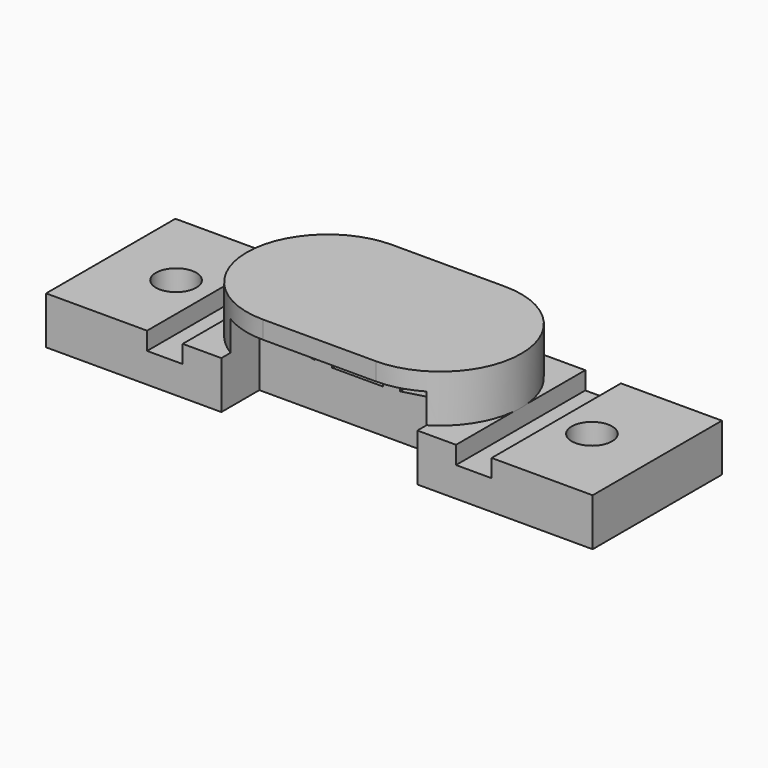
from build123d import *

# Parameters (mm, degrees)
SKETCH_W        = 46
SKETCH_H        = 13.6
SKETCH_R        = 1.7
PAD_DEPTH       = 4
PAD001_DEPTH    = 4
SKETCH002_W     = 4.3
SKETCH002_H     = 1.7
POCKET_DEPTH    = 10
SKETCH003_W     = 16.5
SKETCH003_H     = 7.2
POCKET001_DEPTH = 4
SKETCH004_W     = 3
SKETCH004_H     = 1.5
POCKET002_DEPTH = 110.862709
SKETCH005_W     = 18.5
SKETCH005_H     = 3.5
SKETCH005_W_2   = 2.5
SKETCH005_H_2   = 6
POCKET003_DEPTH = 2
CHAMFER_SIZE    = 1.99
CHAMFER001_SIZE = 1.99


with BuildPart() as part:
    # Sketch → Pad (new body)
    with BuildSketch(Plane.XY):
        Rectangle(SKETCH_W, SKETCH_H)
        with Locations((-17.5, 0)):
            Circle(SKETCH_R, mode=Mode.SUBTRACT)
        with Locations((17.5, 0)):
            Circle(SKETCH_R, mode=Mode.SUBTRACT)
    extrude(amount=-PAD_DEPTH)

    # Sketch001 → Pad001 (new body)
    with BuildSketch(Plane.XY):
        with BuildLine():
            ThreePointArc((-4.75, 6.8), (-11.55, 0), (-4.75, -6.8))
            Line((-4.75, -6.8), (4.75, -6.8))
            ThreePointArc((4.75, -6.8), (11.55, 0), (4.75, 6.8))
            Line((-4.75, 6.8), (4.75, 6.8))
        make_face()
    extrude(amount=PAD001_DEPTH)

    # Sketch002 → Pocket (cut)
    with BuildSketch(Plane.XZ.offset(6.8)):
        Polygon((-7.588114, 2.079739), (-3.336138, 1.438879), (-3.589501, -0.242134), (-7.841477, 0.398725), align=None)
        with Locations((0, 0.5)):
            Rectangle(SKETCH002_W, SKETCH002_H)
        Polygon((3.336139, 1.438884), (7.588117, 2.079734), (7.841476, 0.39872), (3.589499, -0.24213), align=None)
    extrude(amount=-POCKET_DEPTH, mode=Mode.SUBTRACT)

    # Sketch003 → Pocket001 (cut)
    with BuildSketch(Plane.XZ.offset(6.8)):
        with Locations((0, -1.1)):
            Rectangle(SKETCH003_W, SKETCH003_H)
    extrude(amount=-POCKET001_DEPTH, mode=Mode.SUBTRACT)

    # Sketch004 → Pocket002 (cut, through all)
    with BuildSketch(Plane.XZ.offset(6.8)):
        with Locations((-13, -0.75)):
            Rectangle(SKETCH004_W, SKETCH004_H)
    pocket002 = extrude(amount=-POCKET002_DEPTH, mode=Mode.SUBTRACT)

    # Mirrored: Pocket002 across Sketch004 V_Axis
    add(pocket002.mirror(Plane(origin=(0, -6.8, 0), x_dir=(0, -1, 0), z_dir=(1, 0, 0))), mode=Mode.SUBTRACT)

    # Sketch005 → Pocket003 (cut)
    with BuildSketch(Plane(origin=(0, 0, -4), x_dir=(1, 0, 0), z_dir=(0, 0, -1))):
        with Locations((0, -2.25)):
            Rectangle(SKETCH005_W, SKETCH005_H)
        with Locations((-11.3, -1)):
            Rectangle(SKETCH005_W_2, SKETCH005_H_2)
    extrude(amount=-POCKET003_DEPTH, mode=Mode.SUBTRACT)

    # Chamfer
    chamfer_edges = [part.edges().sort_by_distance(p)[0] for p in [
        (-11.3, -2, -4),
    ]]
    chamfer(chamfer_edges, length=CHAMFER_SIZE)

    # Chamfer001
    chamfer001_edges = [part.edges().sort_by_distance(p)[0] for p in [
        (0, 0.5, -4),
    ]]
    chamfer(chamfer001_edges, length=CHAMFER001_SIZE)


solid = part.part
